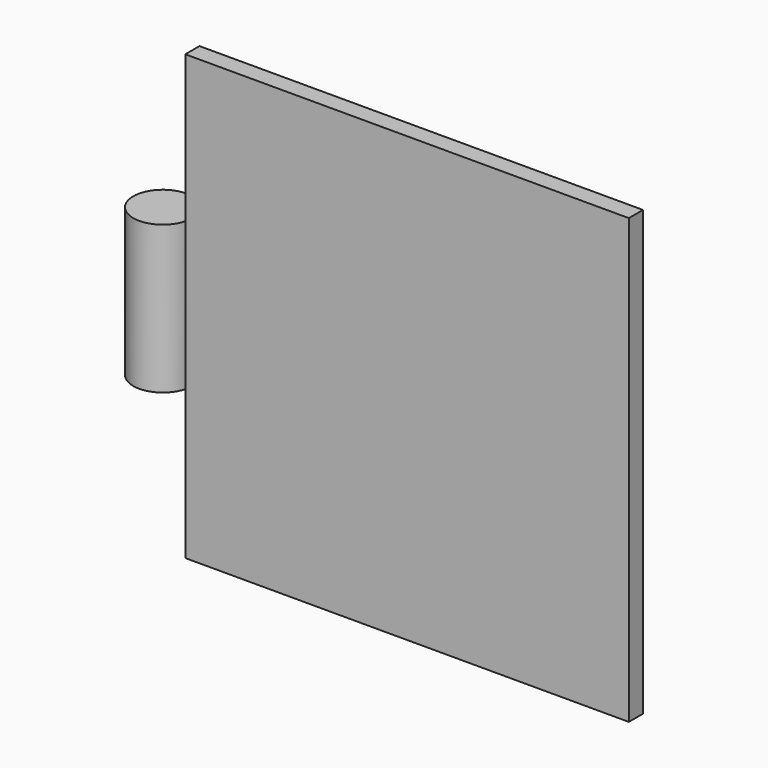
from build123d import *

# Parameters (mm, degrees)
F0_W     = 75
F0_H     = 75
F1_DEPTH = 3
F3_R     = 5
F4_DEPTH = 12.5


with BuildPart() as f1:
    # F0 (on Front) → F1 (new body)
    with BuildSketch(Plane.XZ):
        with Locations((37.5, 37.5)):
            Rectangle(F0_W, F0_H)
    extrude(amount=F1_DEPTH)

    # F3 (on offset) → F4 (join, symmetric)
    with BuildSketch(Plane.XY.offset(37.5)):
        with Locations((-5, -1.5)):
            Circle(F3_R)
    extrude(amount=F4_DEPTH, both=True)


solid = f1.part
